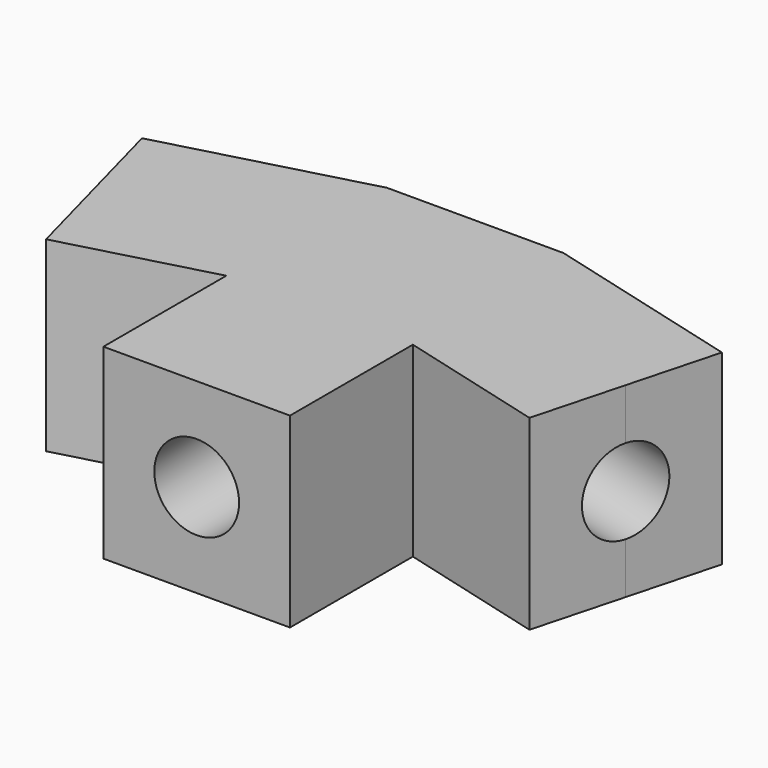
from build123d import *

# Parameters (mm, degrees)
F1_DEPTH = 4.54
F2_R     = 2.0625
F3_DEPTH = 10.16
F4_R     = 2.0625
F5_DEPTH = 10.16
F6_R     = 2.0625
F7_DEPTH = 10.16
F9_DEPTH = 9.081


with BuildPart() as f1:
    # F0 (on Top) → F1 (new body, symmetric)
    with BuildSketch(Plane.XY):
        Polygon((4.297212, 3.548719), (-4.297212, 3.548719), (-14.111018, 0.919118), (-12.93598, -3.466185), (-11.760941, -7.851489), (-4.54, -13.392312), (0, -13.392312), (4.54, -13.392312), (11.760941, -7.851489), (12.93598, -3.466185), (14.111018, 0.919118), align=None)
    extrude(amount=F1_DEPTH, both=True)

    # F2 (on face) → F3 (cut)
    with BuildSketch(Plane(origin=(-12.93598, -3.466185, 0), x_dir=(0.258819, -0.965926, 0), z_dir=(-0.965926, -0.258819, 0))):
        Circle(F2_R)
    extrude(amount=-F3_DEPTH, mode=Mode.SUBTRACT)

    # F4 (on face) → F5 (cut)
    with BuildSketch(Plane(origin=(12.93598, -3.466185, 0), x_dir=(0.258819, 0.965926, 0), z_dir=(0.965926, -0.258819, 0))):
        Circle(F4_R)
    extrude(amount=-F5_DEPTH, mode=Mode.SUBTRACT)

    # F6 (on face) → F7 (cut)
    with BuildSketch(Plane.XZ.offset(13.392312)):
        Circle(F6_R)
    extrude(amount=-F7_DEPTH, mode=Mode.SUBTRACT)

    # F8 (on face) → F9 (cut, through all)
    with BuildSketch(Plane.XY.offset(4.54)):
        Polygon((4.54, -13.392312), (11.760941, -7.851489), (4.54, -5.916643), align=None)
        Polygon((-11.760941, -7.851489), (-4.54, -13.392312), (-4.54, -5.916643), align=None)
    extrude(amount=-F9_DEPTH, mode=Mode.SUBTRACT)


solid = f1.part
